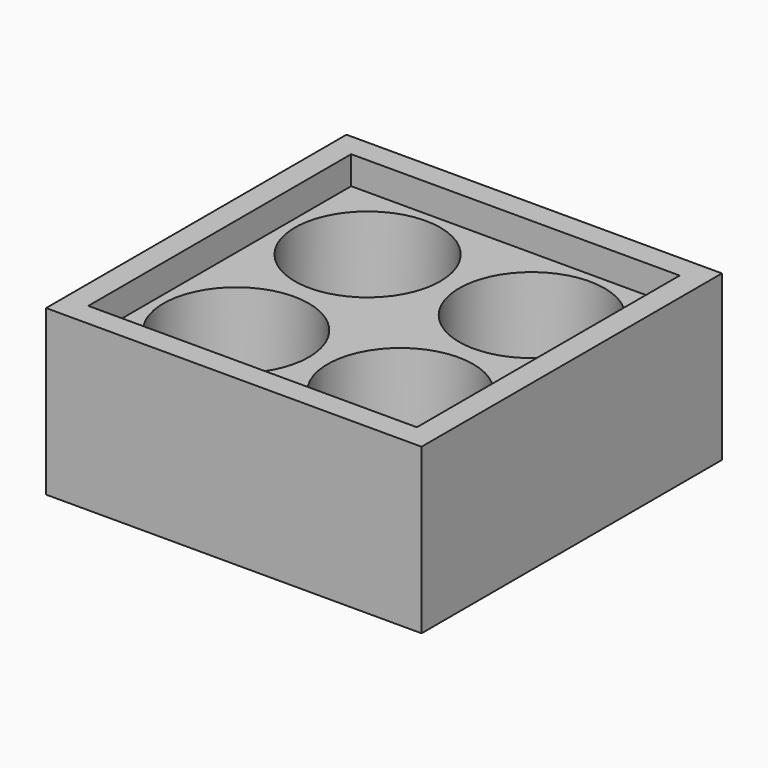
from build123d import *

# Parameters (mm, degrees)
F0_W     = 101.6
F0_H     = 101.6
F1_DEPTH = 6.35
F2_W     = 6.35
F2_H     = 88.9
F3_DEPTH = 38.1
F4_W     = 44.45
F4_H     = 44.45
F4_R     = 19.685
F5_DEPTH = 30.48


with BuildPart() as f1:
    # F0 (on Top) → F1 (new body)
    with BuildSketch(Plane.XY):
        Rectangle(F0_W, F0_H)
    extrude(amount=F1_DEPTH)

    # F2 (on face) → F3 (join)
    with BuildSketch(Plane.XY.offset(6.35)):
        Polygon((50.8, 50.8), (-50.8, 50.8), (-50.8, 44.45), (-44.45, 44.45), (44.45, 44.45), (50.8, 44.45), align=None)
        with Locations((-47.625, 0)):
            Rectangle(F2_W, F2_H)
        Polygon((50.8, -50.8), (50.8, 44.45), (44.45, 44.45), (44.45, -44.45), (44.45, -50.8), align=None)
        Polygon((-44.45, -44.45), (-50.8, -44.45), (-50.8, -50.8), (44.45, -50.8), (44.45, -44.45), align=None)
    extrude(amount=F3_DEPTH)

    # F4 (on face) → F5 (join)
    with BuildSketch(Plane.XY.offset(6.35)):
        with Locations((-22.225, 22.225)):
            Rectangle(F4_W, F4_H)
        with Locations((-22.225, 22.225)):
            Circle(F4_R, mode=Mode.SUBTRACT)
        with Locations((22.225, 22.225)):
            Rectangle(F4_W, F4_H)
        with Locations((22.225, 22.225)):
            Circle(F4_R, mode=Mode.SUBTRACT)
        with Locations((22.225, -22.225)):
            Rectangle(F4_W, F4_H)
        with Locations((22.225, -22.225)):
            Circle(F4_R, mode=Mode.SUBTRACT)
        with Locations((-22.225, -22.225)):
            Rectangle(F4_W, F4_H)
        with Locations((-22.225, -22.225)):
            Circle(F4_R, mode=Mode.SUBTRACT)
    extrude(amount=F5_DEPTH)


solid = f1.part
